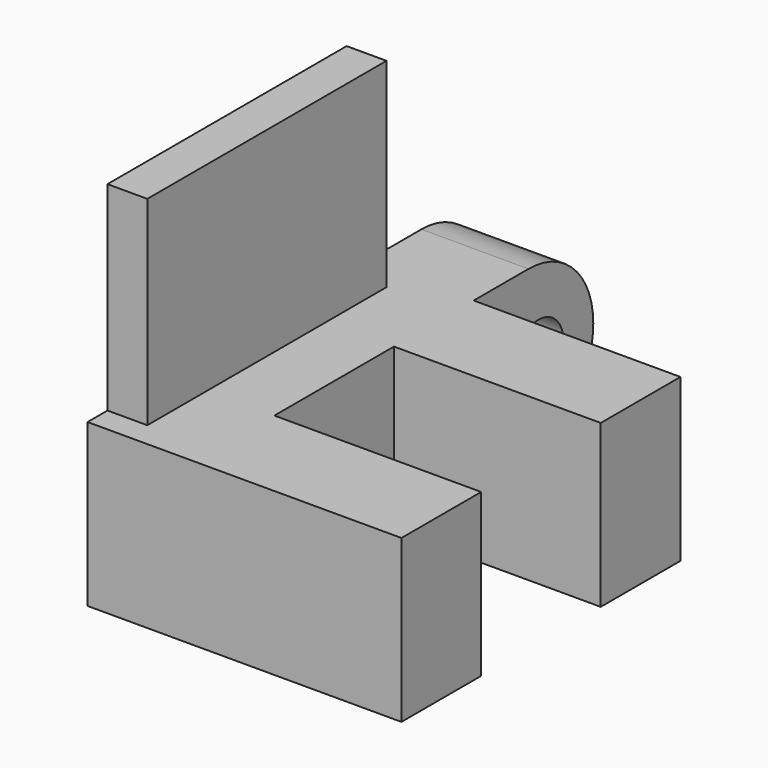
from build123d import *

# Parameters (mm, degrees)
SKETCH009_R                    = 1.25
EXTRUDE006_DEPTH               = 1.6
SKETCH007_R                    = 1.25
EXTRUDE004_DEPTH               = 11
EXTRUDE003_DEPTH               = 3.3
PART_MIRRORING_ROLL_ANGLE      = 90
PART_MIRRORING_PLACEMENT_ANGLE = 90


with BuildPart() as opticalsensorpcbonlyonetab:
    # Sketch009 → Extrude006 (new body)
    with BuildSketch(Plane.XY):
        with BuildLine():
            Line((-6, 0), (6, 0))
            Line((6, 0), (6, 8))
            Line((6, 8), (9.75, 8))
            ThreePointArc((9.75, 8), (13, 11.25), (9.75, 14.5))
            Line((-7, 14.5), (9.75, 14.5))
            Line((-7, 8), (-7, 14.5))
            Line((-6, 8), (-7, 8))
            Line((-6, 0), (-6, 8))
        make_face()
        with Locations((10.25, 11.25)):
            Circle(SKETCH009_R, mode=Mode.SUBTRACT)
    extrude(amount=EXTRUDE006_DEPTH)


with BuildPart() as obj1:
    # Sketch007 → Extrude004 (new body)
    with BuildSketch(Plane.XY):
        with BuildLine():
            Line((-7, 3.25), (9.75, 3.25))
            ThreePointArc((9.75, -3.25), (13, 0), (9.75, 3.25))
            Line((-7, -3.25), (9.75, -3.25))
            Line((-7, -3.25), (-7, 3.25))
        make_face()
        with Locations((10.25, 0)):
            Circle(SKETCH007_R, mode=Mode.SUBTRACT)
    extrude(amount=EXTRUDE004_DEPTH)


with BuildPart() as obj2:
    # Sketch006 → Extrude003 (new body, symmetric)
    with BuildSketch(Plane.XZ):
        Polygon((-7, 0), (13, 0), (13, 2.7), (7, 2.7), (7, 11), (3, 11), (3, 2.7), (-3, 2.7), (-3, 11), (-7, 11), align=None)
    extrude(amount=EXTRUDE003_DEPTH, both=True)

    # Common: intersect obj1
    add(obj1.part, mode=Mode.INTERSECT)


with BuildPart() as obj2_1:
    # Common placement: moved
    add(obj2.part.moved(Location((0, 11.25, 1.6))))

    # Fusion022: union OpticalSensorPcbOnlyOneTab
    add(opticalsensorpcbonlyonetab.part)


with BuildPart() as obj3:
    # Part__Mirroring: instance of obj2
    add(obj2_1.part.mirror(Plane(origin=(0, 0, 0), x_dir=(1, 0, 0), z_dir=(0, 1, 0))))


with BuildPart() as obj3_1:
    # Part__Mirroring roll: moved
    add(obj3.part.rotate(Axis((0, 0, 0), (1, 0, 0)), PART_MIRRORING_ROLL_ANGLE))


with BuildPart() as obj3_2:
    # Part__Mirroring placement: moved
    add(obj3_1.part.moved(Location((-24, 10, 41.25))).rotate(Axis((-24, 10, 41.25), (0, 0, 1)), PART_MIRRORING_PLACEMENT_ANGLE))


solid = obj3_2.part
